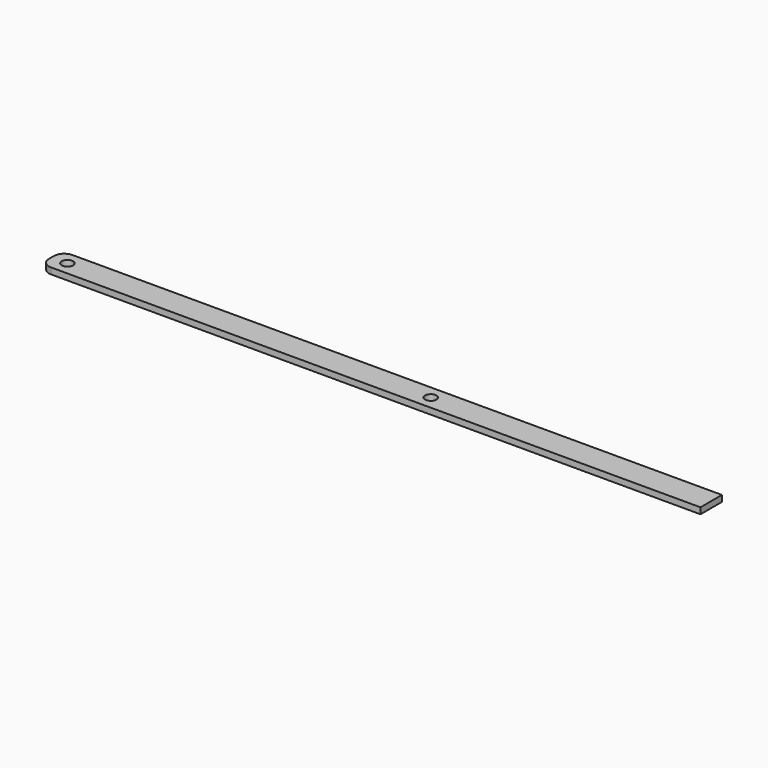
from build123d import *

# Parameters (mm, degrees)
F0_R     = 2.75
F1_DEPTH = 3


with BuildPart() as f1:
    # F0 (on Top) → F1 (new body)
    with BuildSketch(Plane.XY):
        with BuildLine():
            Line((-155, -6.5), (160, -6.5))
            Line((160, -6.5), (160, 6.5))
            Line((160, 6.5), (-155, 6.5))
            ThreePointArc((-155, 6.5), (-158.535534, 5.035534), (-160, 1.5))
            Line((-160, 1.5), (-160, -1.5))
            ThreePointArc((-160, -1.5), (-158.535534, -5.035534), (-155, -6.5))
        make_face()
        with Locations((-152.25, 0)):
            Circle(F0_R, mode=Mode.SUBTRACT)
        with Locations((24, 0)):
            Circle(F0_R, mode=Mode.SUBTRACT)
    extrude(amount=F1_DEPTH)


solid = f1.part
